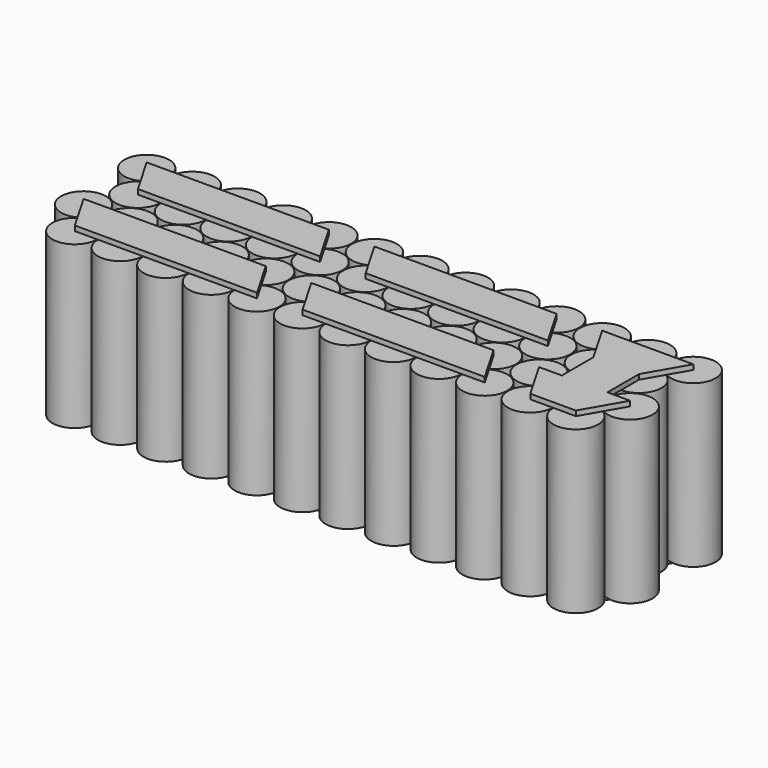
from build123d import *

# Parameters (mm, degrees)
F2_DEPTH = 2
F0_R     = 9
F3_DEPTH = 65
F5_DEPTH = 2


with BuildPart() as f2:
    # F1 (on Top) → F2 (new body)
    with BuildSketch(Plane.XY):
        Polygon((36.6, 0), (0, 0), (9.15, -15.848265), (27.45, -15.848265), (45.75, -15.848265), (82.35, -15.848265), (73.2, 0), (54.9, 0), align=None)
        Polygon((9.15, 15.848265), (27.45, 15.848265), (45.75, 15.848265), (82.35, 15.848265), (73.2, 31.69653), (54.9, 31.69653), (36.6, 31.69653), (0, 31.69653), align=None)
        Polygon((192.15, 0), (183, 0), (192.15, -15.848265), (210.45, -15.848265), (219.6, 0), (210.45, 0), (210.45, 15.848265), (219.6, 31.69653), (183, 31.69653), (192.15, 15.848265), align=None)
        Polygon((100.65, -15.848265), (118.95, -15.848265), (137.25, -15.848265), (173.85, -15.848265), (164.7, 0), (146.4, 0), (128.1, 0), (91.5, 0), align=None)
        Polygon((91.5, 31.69653), (100.65, 15.848265), (118.95, 15.848265), (137.25, 15.848265), (173.85, 15.848265), (164.7, 31.69653), (146.4, 31.69653), (128.1, 31.69653), align=None)
    extrude(amount=F2_DEPTH)


with BuildPart() as f3:
    # F0 (on Top) → F3 (new body)
    with BuildSketch(Plane.XY):
        with Locations((0, 31.69653)):
            Circle(F0_R)
        with Locations((18.3, 31.69653)):
            Circle(F0_R)
        with Locations((27.45, 15.848265)):
            Circle(F0_R)
        with Locations((9.15, 15.848265)):
            Circle(F0_R)
        Circle(F0_R)
        with Locations((18.3, 0)):
            Circle(F0_R)
        with Locations((9.15, -15.848265)):
            Circle(F0_R)
        with Locations((27.45, -15.848265)):
            Circle(F0_R)
        with Locations((54.9, 0)):
            Circle(F0_R)
        with Locations((64.05, -15.848265)):
            Circle(F0_R)
        with Locations((54.9, 31.69653)):
            Circle(F0_R)
        with Locations((36.6, 31.69653)):
            Circle(F0_R)
        with Locations((45.75, 15.848265)):
            Circle(F0_R)
        with Locations((36.6, 0)):
            Circle(F0_R)
        with Locations((45.75, -15.848265)):
            Circle(F0_R)
        with Locations((64.05, 15.848265)):
            Circle(F0_R)
        with Locations((91.5, 0)):
            Circle(F0_R)
        with Locations((100.65, -15.848265)):
            Circle(F0_R)
        with Locations((91.5, 31.69653)):
            Circle(F0_R)
        with Locations((73.2, 31.69653)):
            Circle(F0_R)
        with Locations((82.35, 15.848265)):
            Circle(F0_R)
        with Locations((73.2, 0)):
            Circle(F0_R)
        with Locations((82.35, -15.848265)):
            Circle(F0_R)
        with Locations((100.65, 15.848265)):
            Circle(F0_R)
        with Locations((128.1, 0)):
            Circle(F0_R)
        with Locations((137.25, -15.848265)):
            Circle(F0_R)
        with Locations((128.1, 31.69653)):
            Circle(F0_R)
        with Locations((109.8, 31.69653)):
            Circle(F0_R)
        with Locations((118.95, 15.848265)):
            Circle(F0_R)
        with Locations((109.8, 0)):
            Circle(F0_R)
        with Locations((118.95, -15.848265)):
            Circle(F0_R)
        with Locations((137.25, 15.848265)):
            Circle(F0_R)
        with Locations((164.7, 0)):
            Circle(F0_R)
        with Locations((173.85, -15.848265)):
            Circle(F0_R)
        with Locations((164.7, 31.69653)):
            Circle(F0_R)
        with Locations((146.4, 31.69653)):
            Circle(F0_R)
        with Locations((155.55, 15.848265)):
            Circle(F0_R)
        with Locations((146.4, 0)):
            Circle(F0_R)
        with Locations((155.55, -15.848265)):
            Circle(F0_R)
        with Locations((173.85, 15.848265)):
            Circle(F0_R)
        with Locations((201.3, 0)):
            Circle(F0_R)
        with Locations((210.45, -15.848265)):
            Circle(F0_R)
        with Locations((201.3, 31.69653)):
            Circle(F0_R)
        with Locations((183, 31.69653)):
            Circle(F0_R)
        with Locations((192.15, 15.848265)):
            Circle(F0_R)
        with Locations((183, 0)):
            Circle(F0_R)
        with Locations((192.15, -15.848265)):
            Circle(F0_R)
        with Locations((210.45, 15.848265)):
            Circle(F0_R)
        with Locations((219.6, 31.69653)):
            Circle(F0_R)
        with Locations((219.6, 0)):
            Circle(F0_R)
    extrude(amount=-F3_DEPTH)


with BuildPart() as f5:
    # F4 (on face) → F5 (new body)
    with BuildSketch(Plane(origin=(0, 0, -65), x_dir=(1, 0, 0), z_dir=(0, 0, -1))):
        Polygon((9.15, -15.848265), (0, -31.69653), (36.6, -31.69653), (27.45, -15.848265), align=None)
        Polygon((9.15, 15.848265), (0, 0), (36.6, 0), (27.45, 15.848265), align=None)
        Polygon((118.95, 15.848265), (45.75, 15.848265), (54.9, 0), (128.1, 0), align=None)
        Polygon((118.95, -15.848265), (45.75, -15.848265), (54.9, -31.69653), (128.1, -31.69653), align=None)
        Polygon((210.45, 15.848265), (137.25, 15.848265), (146.4, 0), (219.6, 0), align=None)
        Polygon((210.45, -15.848265), (137.25, -15.848265), (146.4, -31.69653), (219.6, -31.69653), align=None)
    extrude(amount=F5_DEPTH)


solid = Compound([f2.part, f3.part, f5.part])
